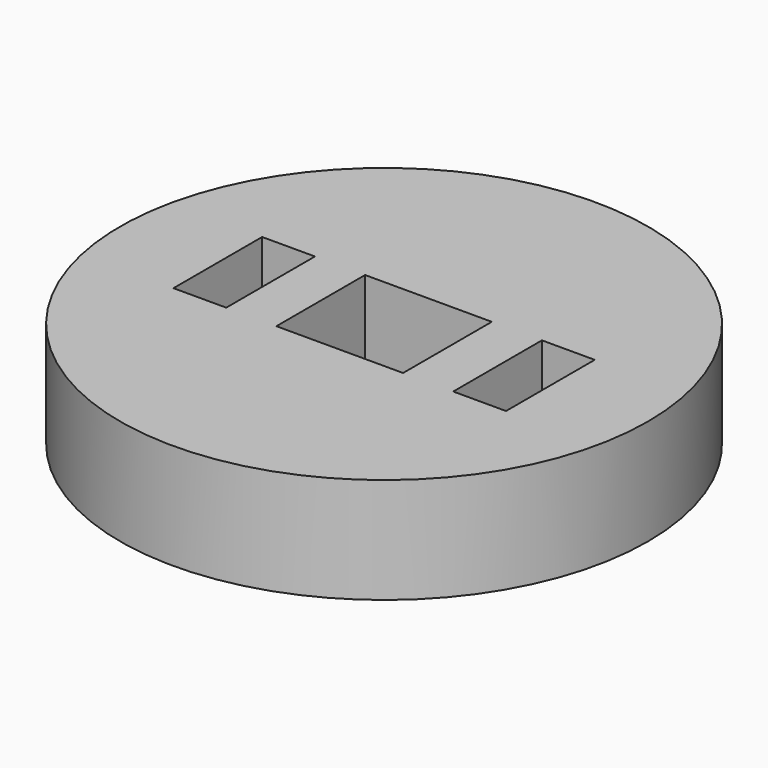
from build123d import *

# Parameters (mm, degrees)
F0_R     = 50
F0_W     = 10
F0_H     = 21
F0_W_2   = 24
F1_DEPTH = 20


with BuildPart() as f1:
    # F0 (on Top) → F1 (new body)
    with BuildSketch(Plane.XY):
        Circle(F0_R)
        with Locations((-26.5, 0)):
            Rectangle(F0_W, F0_H, mode=Mode.SUBTRACT)
        Rectangle(F0_W_2, F0_H, mode=Mode.SUBTRACT)
        with Locations((26.5, 0)):
            Rectangle(F0_W, F0_H, mode=Mode.SUBTRACT)
    extrude(amount=-F1_DEPTH)


solid = f1.part
